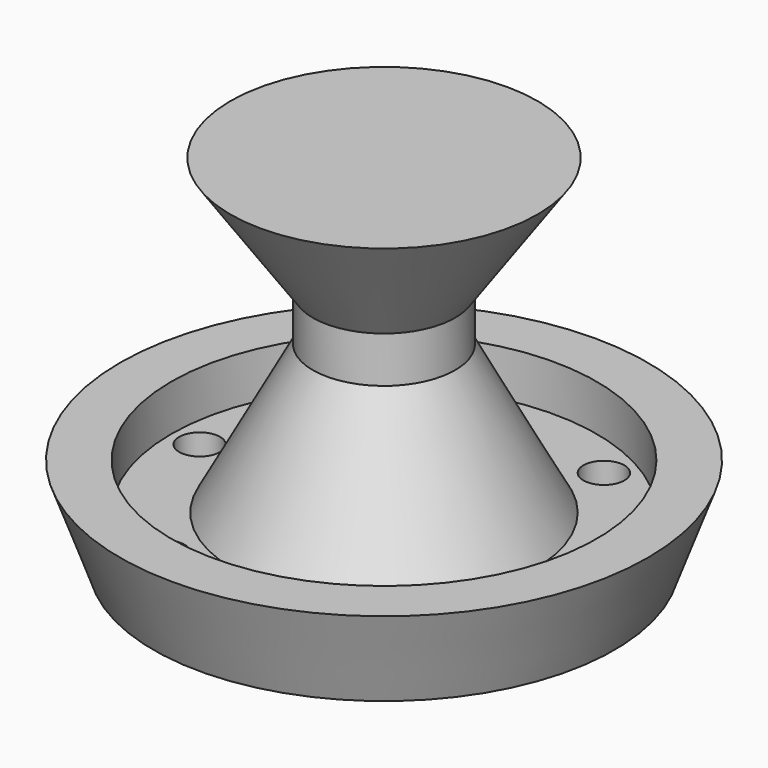
from build123d import *

# Parameters (mm, degrees)
F2_R     = 4
F3_DEPTH = 25


with BuildPart() as f1:
    # F0 (on Front) → F1 (revolve)
    with BuildSketch(Plane.XZ):
        Polygon((0, 0), (0, 70), (-30, 70), (-13.895227, 47), (-13.895227, 38), (-29.551464, 9), (-41.551464, 9), (-41.551464, 18), (-51.551464, 18), (-45, 0), align=None)
    revolve(axis=Axis((0, 0, 35), (0, 0, 1)))

    # F2 (on face) → F3 (cut)
    with BuildSketch(Plane.XY.offset(9)):
        with Locations((-36, 0)):
            Circle(F2_R)
        with Locations((-18, -31.176915)):
            Circle(F2_R)
        with Locations((18, -31.176915)):
            Circle(F2_R)
        with Locations((36, 0)):
            Circle(F2_R)
        with Locations((18, 31.176915)):
            Circle(F2_R)
        with Locations((-18, 31.176915)):
            Circle(F2_R)
    extrude(amount=-F3_DEPTH, mode=Mode.SUBTRACT)


solid = f1.part
